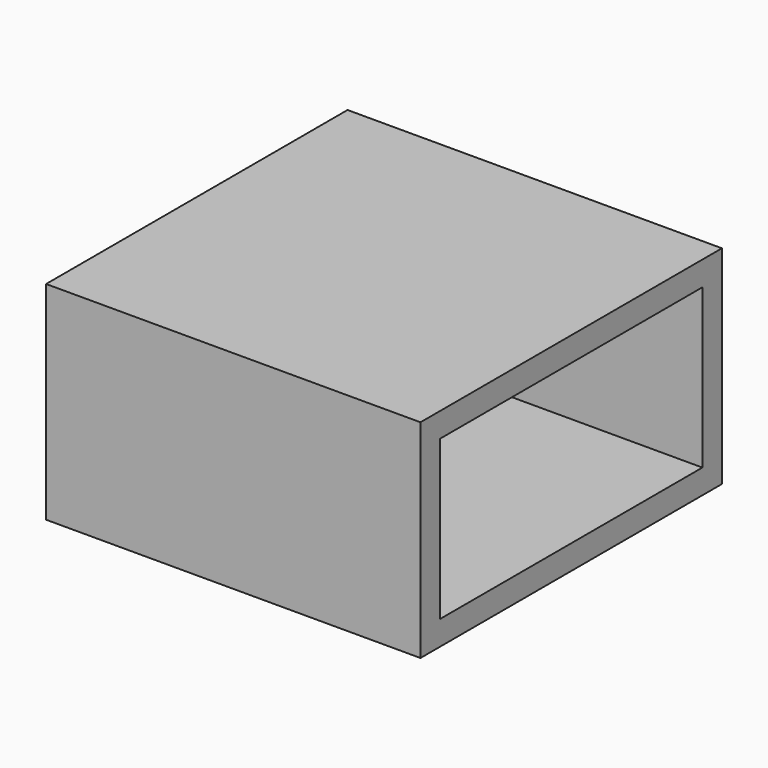
from build123d import *

# Parameters (mm, degrees)
SKETCH001_W  = 46
SKETCH001_H  = 46.3
PAD_DEPTH    = 25.5
SKETCH_W     = 43
SKETCH_H     = 40.3
POCKET_DEPTH = 19.5


with BuildPart() as part:
    # Sketch001 → Pad (new body)
    with BuildSketch(Plane.XY):
        with Locations((20, 20.15)):
            Rectangle(SKETCH001_W, SKETCH001_H)
    extrude(amount=PAD_DEPTH)

    # Sketch → Pocket (cut)
    with BuildSketch(Plane.XY.offset(3)):
        with Locations((21.5, 20.15)):
            Rectangle(SKETCH_W, SKETCH_H)
    extrude(amount=POCKET_DEPTH, mode=Mode.SUBTRACT)


solid = part.part
